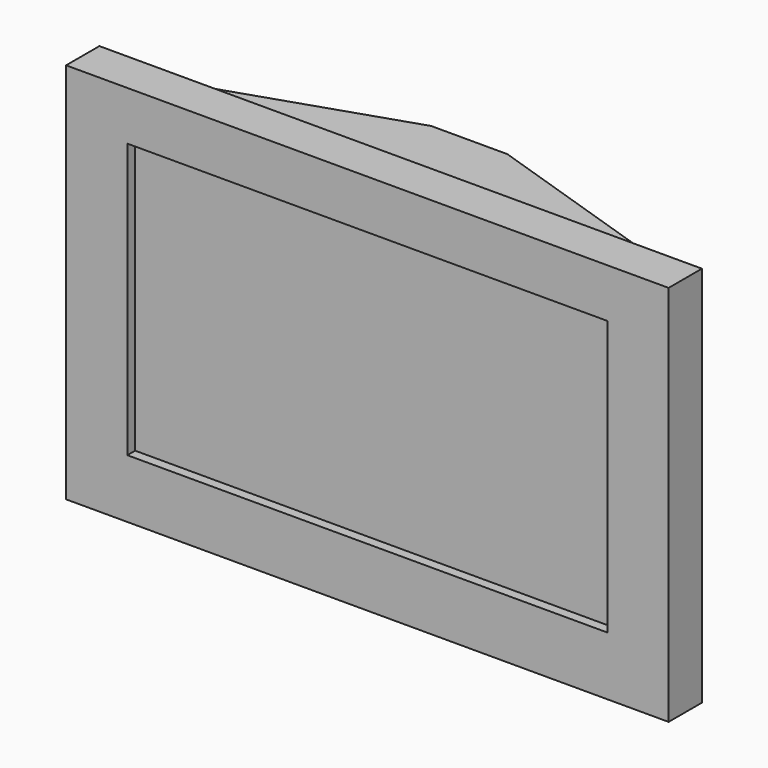
from build123d import *

# Parameters (mm, degrees)
F0_W          = 123
F0_H          = 78
F1_DEPTH      = 8.5
F2_W          = 98
F2_H          = 56
F3_DEPTH      = 2
F5_DEPTH      = 35
F5_DEPTH_BACK = 35


with BuildPart() as f1:
    # F0 (on Front) → F1 (new body)
    with BuildSketch(Plane.XZ):
        Rectangle(F0_W, F0_H)
    extrude(amount=-F1_DEPTH)

    # F2 (on face) → F3 (cut)
    with BuildSketch(Plane.XZ):
        with Locations((0, 1)):
            Rectangle(F2_W, F2_H)
    extrude(amount=-F3_DEPTH, mode=Mode.SUBTRACT)

    # F4 (on Top) → F5 (join, two sides)
    with BuildSketch(Plane.XY) as f5_sk:
        Polygon((-49, 12.4), (-61.5, 8.5), (61.5, 8.5), (49, 12.4), (7.791058, 26), (0, 26), (-7.791058, 26), align=None)
    extrude(amount=F5_DEPTH)
    extrude(f5_sk.sketch, amount=-F5_DEPTH_BACK)


solid = f1.part
